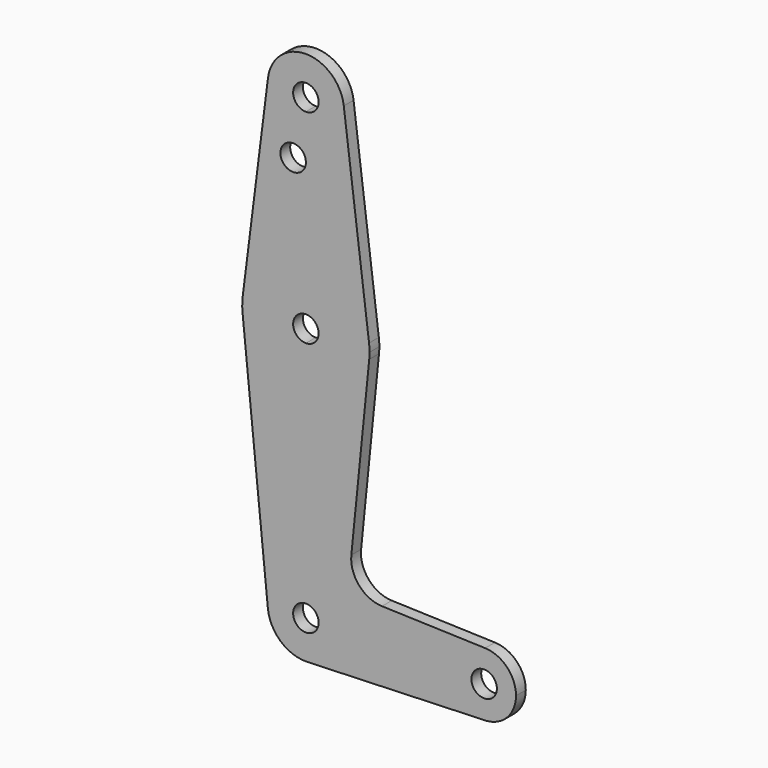
from build123d import *

# Parameters (mm, degrees)
F0_R     = 3.175
F1_DEPTH = 3.048


with BuildPart() as f1:
    # F0 (on Front) → F1 (new body)
    with BuildSketch(Plane.XZ):
        with BuildLine():
            ThreePointArc((-58.9567643657, 68.7791751019), (-56.6502214015, 61.2883547924), (-49.5064714015, 58.0635501019))
            ThreePointArc((-49.5064714015, 58.0635501019), (-42.7712793107, 60.8533580111), (-39.9814714015, 67.5885501019))
            ThreePointArc((-39.9814714015, 67.5885501019), (-40.0001665073, 68.1850333438), (-40.0561784373, 68.7791751019))
            ThreePointArc((-40.0561784373, 68.7791751019), (-49.5064714015, 77.1135501019), (-58.9567643657, 68.7791751019))
        make_face()
        with BuildLine():
            ThreePointArc((-46.3314714015, 67.5885501019), (-47.2614073712, 65.3434860716), (-49.5064714015, 64.4135501019))
            ThreePointArc((-49.5064714015, 64.4135501019), (-51.7515354318, 69.8336141321), (-46.3314714015, 67.5885501019))
        make_face(mode=Mode.SUBTRACT)
        with BuildLine():
            ThreePointArc((-39.9814714015, 67.5885501019), (-42.7712793107, 60.8533580111), (-49.5064714015, 58.0635501019))
            Line((-49.5064714015, 58.0635501019), (-49.5064714015, 53.3137501019))
            Line((-49.5064714015, 53.3137501019), (-49.5064714015, 32.6635501019))
            ThreePointArc((-49.5064714015, 32.6635501019), (-39.0061458857, 28.6948001019), (-33.7559831278, 18.7729251019))
            Line((-33.7559831278, 18.7729251019), (-40.0561784373, 68.7791751019))
            ThreePointArc((-40.0561784373, 68.7791751019), (-40.0001665073, 68.1850333438), (-39.9814714015, 67.5885501019))
        make_face()
        with BuildLine():
            Line((-49.5064714015, 53.3137501019), (-49.5064714015, 58.0635501019))
            ThreePointArc((-49.5064714015, 58.0635501019), (-56.6502214015, 61.2883547924), (-58.9567643657, 68.7791751019))
            Line((-58.9567643657, 68.7791751019), (-65.2569596752, 18.7729251019))
            ThreePointArc((-65.2569596752, 18.7729251019), (-60.0067969173, 28.6948001019), (-49.5064714015, 32.6635501019))
            Line((-49.5064714015, 32.6635501019), (-49.5064714015, 53.3137501019))
        make_face()
        with Locations((-52.6814714015, 53.3137501019)):
            Circle(F0_R, mode=Mode.SUBTRACT)
        with BuildLine():
            ThreePointArc((-33.7559831278, 18.7729251019), (-39.0061458857, 28.6948001019), (-49.5064714015, 32.6635501019))
            Line((-49.5064714015, 32.6635501019), (-49.5064714015, 19.9635501019))
            ThreePointArc((-49.5064714015, 19.9635501019), (-47.2614073712, 19.0336141321), (-46.3314714015, 16.7885501019))
            ThreePointArc((-46.3314714015, 16.7885501019), (-47.2614073712, 14.5434860716), (-49.5064714015, 13.6135501019))
            Line((-49.5064714015, 13.6135501019), (-49.5064714015, 0.9135501019))
            ThreePointArc((-49.5064714015, 0.9135501019), (-38.8571976587, 5.0153350036), (-33.7110458374, 15.2010501019))
            ThreePointArc((-33.7110458374, 15.2010501019), (-33.6513774909, 15.9938035478), (-33.6314714015, 16.7885501019))
            ThreePointArc((-33.6314714015, 16.7885501019), (-33.6626299111, 17.7826888385), (-33.7559831278, 18.7729251019))
        make_face()
        with BuildLine():
            Line((-49.5064714015, 19.9635501019), (-49.5064714015, 32.6635501019))
            ThreePointArc((-49.5064714015, 32.6635501019), (-60.0067969173, 28.6948001019), (-65.2569596752, 18.7729251019))
            ThreePointArc((-65.2569596752, 18.7729251019), (-65.380215217, 16.9882555886), (-65.3018969656, 15.2010501019))
            ThreePointArc((-65.3018969656, 15.2010501019), (-60.1557451444, 5.0153350036), (-49.5064714015, 0.9135501019))
            Line((-49.5064714015, 0.9135501019), (-49.5064714015, 13.6135501019))
            ThreePointArc((-49.5064714015, 13.6135501019), (-52.6814714015, 16.7885501019), (-49.5064714015, 19.9635501019))
        make_face()
        with BuildLine():
            ThreePointArc((-49.5064714015, 0.9135501019), (-60.1557451444, 5.0153350036), (-65.3018969656, 15.2010501019))
            Line((-65.3018969656, 15.2010501019), (-58.9837267399, -47.6639498981))
            ThreePointArc((-58.9837267399, -47.6639498981), (-56.5704004605, -40.3218856524), (-49.5064714015, -37.1864498981))
            Line((-49.5064714015, -37.1864498981), (-49.5064714015, 0.9135501019))
        make_face()
        with BuildLine():
            ThreePointArc((-33.7110458374, 15.2010501019), (-38.8571976587, 5.0153350036), (-49.5064714015, 0.9135501019))
            Line((-49.5064714015, 0.9135501019), (-49.5064714015, -37.1864498981))
            ThreePointArc((-49.5064714015, -37.1864498981), (-42.7712793107, -39.9762578073), (-39.9814714015, -46.7114498981))
            ThreePointArc((-39.9814714015, -46.7114498981), (-42.5350302205, -53.2017991075), (-48.8265386686, -56.2121507396))
            ThreePointArc((-48.8265386686, -56.2121507396), (-48.9963343767, -56.2227792067), (-49.1662928301, -56.2303733425))
            Line((-49.1662928301, -56.2303733425), (-4.7729892587, -54.6438861018))
            ThreePointArc((-4.7729892587, -54.6438861018), (-4.9285263878, -54.6479186547), (-5.0841126774, -54.6489017695))
            ThreePointArc((-5.0841126774, -54.6489017695), (-12.9926842339, -46.5685089002), (-4.7982608461, -38.7781508644))
            Line((-4.7982608461, -38.7781508644), (-30.5217835262, -37.9409096296))
            ThreePointArc((-30.5217835262, -37.9409096296), (-36.2451622807, -35.2314549872), (-38.1735089564, -29.1998973174))
            Line((-38.1735089564, -29.1998973174), (-33.7110458374, 15.2010501019))
        make_face()
        with BuildLine():
            ThreePointArc((-49.5064714015, -37.1864498981), (-56.5704004605, -40.3218856524), (-58.9837267399, -47.6639498981))
            ThreePointArc((-58.9837267399, -47.6639498981), (-55.8960356472, -53.7753789571), (-49.5064714015, -56.2364498981))
            Line((-49.5064714015, -56.2364498981), (-49.1687745369, -56.2243814254))
            Line((-49.1687745369, -56.2243814254), (-48.8265386686, -56.2121507396))
            ThreePointArc((-48.8265386686, -56.2121507396), (-42.5350302205, -53.2017991075), (-39.9814714015, -46.7114498981))
            ThreePointArc((-39.9814714015, -46.7114498981), (-42.7712793107, -39.9762578073), (-49.5064714015, -37.1864498981))
        make_face()
        with Locations((-49.5064714015, -46.7114498981)):
            Circle(F0_R, mode=Mode.SUBTRACT)
        with BuildLine():
            Line((-49.1687745369, -56.2243814254), (-49.5064714015, -56.2364498981))
            ThreePointArc((-49.5064714015, -56.2364498981), (-49.3363549818, -56.2349306381), (-49.1662928301, -56.2303733425))
            Line((-49.1662928301, -56.2303733425), (-49.1687745369, -56.2243814254))
        make_face()
        with BuildLine():
            Line((-49.1687745369, -56.2243814254), (-49.1662928301, -56.2303733425))
            ThreePointArc((-49.1662928301, -56.2303733425), (-48.9963343767, -56.2227792067), (-48.8265386686, -56.2121507396))
            Line((-48.8265386686, -56.2121507396), (-49.1687745369, -56.2243814254))
        make_face()
        with BuildLine():
            ThreePointArc((-5.0841126774, -54.6489017695), (-4.9285263878, -54.6479186547), (-4.7729892587, -54.6438861018))
            ThreePointArc((-4.7729892587, -54.6438861018), (-4.6175570357, -54.6368054378), (-4.4622934659, -54.6266794482))
            Line((-4.4622934659, -54.6266794482), (-5.0841126774, -54.6489017695))
        make_face()
        with BuildLine():
            ThreePointArc((2.8810285985, -46.7114498981), (0.6467492909, -41.1908358034), (-4.7982608461, -38.7781508644))
            ThreePointArc((-4.7982608461, -38.7781508644), (-12.9926842339, -46.5685089002), (-5.0841126774, -54.6489017695))
            Line((-5.0841126774, -54.6489017695), (-4.4622934659, -54.6266794482))
            ThreePointArc((-4.4622934659, -54.6266794482), (0.7624715271, -52.1099505644), (2.8810285985, -46.7114498981))
        make_face()
        with Locations((-5.0564714015, -46.7114498981)):
            Circle(F0_R, mode=Mode.SUBTRACT)
    extrude(amount=F1_DEPTH)


solid = f1.part
